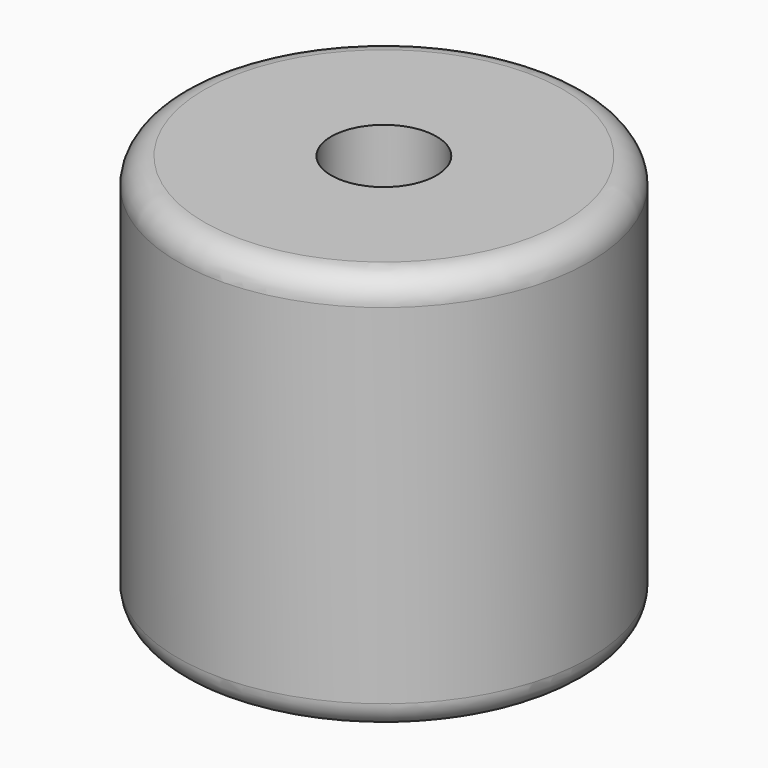
from build123d import *

# Parameters (mm, degrees)
F0_R           = 39.0830403339
F1_DEPTH       = 76.2
F2_R           = 5
F4_D           = 20
F4_DEPTH       = 50
F4_CBORE_D     = 20
F4_CBORE_DEPTH = 30
F4_TIP         = 6.0086061903


with BuildPart() as f1:
    # F0 (on Top) → F1 (new body)
    with BuildSketch(Plane.XY):
        with Locations((-14.6049745381, 0)):
            Circle(F0_R)
        with Locations((-14.6049745381, 0)):
            Circle(F0_R)
    extrude(amount=F1_DEPTH)

    # F2
    f2_edges = [f1.edges().sort_by_distance(p)[0] for p in [
        (24.478066, 0, 38.1),
        (-53.688015, 0, 0),
        (-53.688015, 0, 76.2),
    ]]
    fillet(f2_edges, radius=F2_R)

    # F4
    with Locations(Plane.XY.offset(76.2)):
        with Locations((-14.6049745381, 0)):
            CounterBoreHole(F4_D / 2, F4_CBORE_D / 2, F4_CBORE_DEPTH, depth=F4_DEPTH)
            with Locations((0, 0, -(F4_DEPTH + F4_TIP / 2))):  # 118° drill point
                Cone(0, F4_D / 2, F4_TIP, mode=Mode.SUBTRACT)


solid = f1.part
